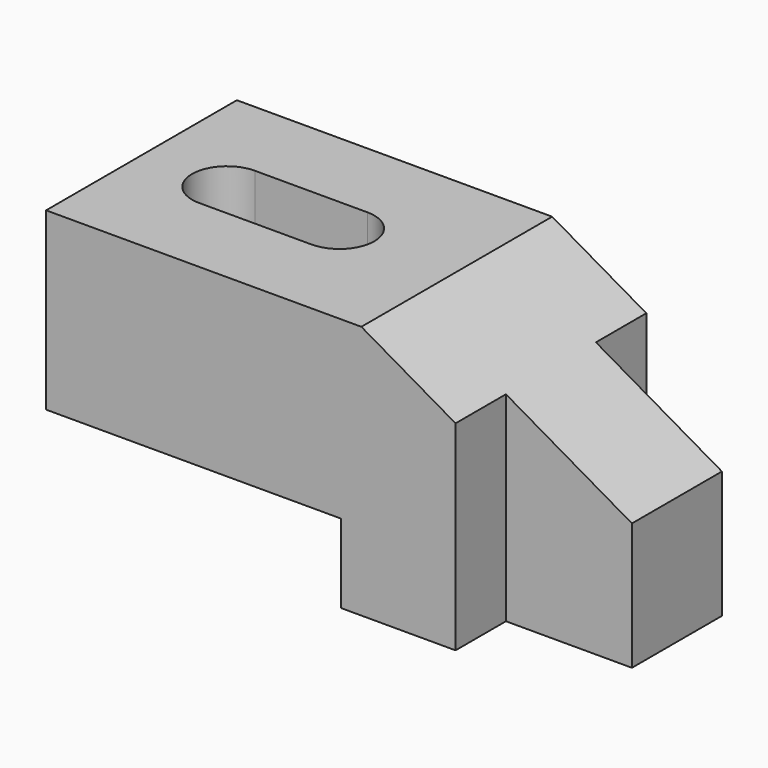
from build123d import *

# Parameters (mm, degrees)
F0_W     = 120.904
F0_H     = 57.404
F1_DEPTH = 26.924
F2_W     = 66.548
F2_H     = 17.78
F3_DEPTH = 53.849
F5_DEPTH = 53.849
F6_W     = 28.448
F6_H     = 14.224
F7_DEPTH = 57.405
F9_DEPTH = 57.405


with BuildPart() as f1:
    # F0 (on Front) → F1 (new body, symmetric)
    with BuildSketch(Plane.XZ):
        with Locations((60.452, 28.702)):
            Rectangle(F0_W, F0_H)
    extrude(amount=F1_DEPTH, both=True)

    # F2 (on face) → F3 (cut, through all)
    with BuildSketch(Plane.XZ.offset(26.924)):
        with Locations((33.274, 8.89)):
            Rectangle(F2_W, F2_H)
    extrude(amount=-F3_DEPTH, mode=Mode.SUBTRACT)

    # F4 (on face) → F5 (cut, through all)
    with BuildSketch(Plane.XZ.offset(26.924)):
        Polygon((120.904, 28.702), (120.904, 57.404), (71.190678, 57.404), align=None)
    extrude(amount=-F5_DEPTH, mode=Mode.SUBTRACT)

    # F6 (on face) → F7 (cut, through all)
    with BuildSketch(Plane.XY.offset(57.404)):
        with Locations((106.68, -19.812)):
            Rectangle(F6_W, F6_H)
        with Locations((106.68, 19.812)):
            Rectangle(F6_W, F6_H)
    extrude(amount=-F7_DEPTH, mode=Mode.SUBTRACT)

    # F8 (on face) → F9 (cut, through all)
    with BuildSketch(Plane.XY.offset(57.404)):
        with BuildLine():
            Line((44.704, 7.874), (19.304, 7.874))
            ThreePointArc((19.304, 7.874), (11.43, 0), (19.304, -7.874))
            Line((19.304, -7.874), (44.704, -7.874))
            ThreePointArc((44.704, -7.874), (52.578, 0), (44.704, 7.874))
        make_face()
    extrude(amount=-F9_DEPTH, mode=Mode.SUBTRACT)


solid = f1.part
